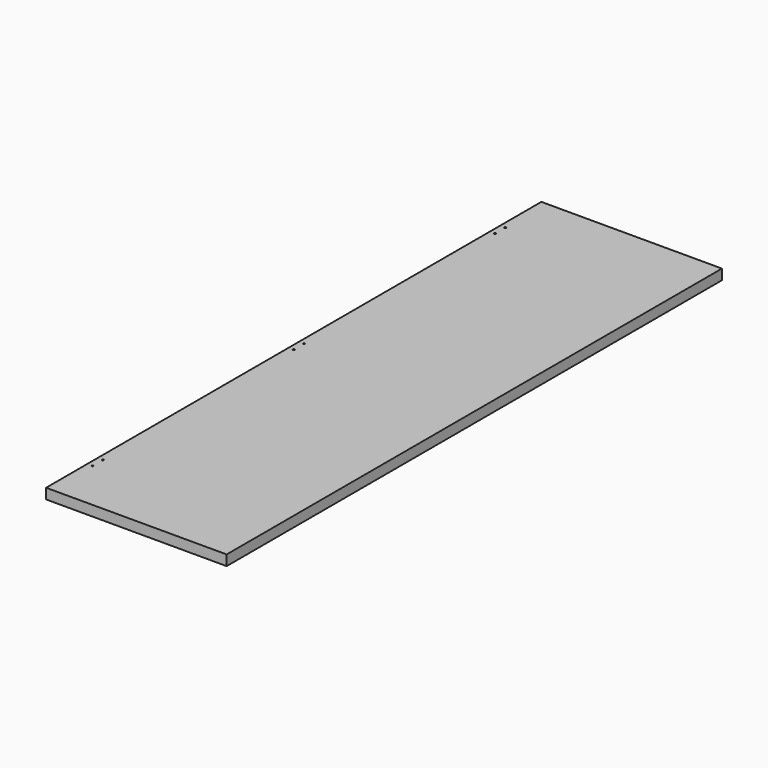
from build123d import *

# Parameters (mm, degrees)
F0_W     = 350
F0_H     = 1200
F1_DEPTH = 20
F3_D     = 3.3


with BuildPart() as f1:
    # F0 (on Top) → F1 (new body)
    with BuildSketch(Plane.XY):
        Rectangle(F0_W, F0_H)
    extrude(amount=F1_DEPTH)

    # F3 (through all)
    with Locations(Plane(origin=(0, 0, 0), x_dir=(1, 0, 0), z_dir=(0, 0, -1))):
        with Locations((-165, 500), (-165, 475), (-165, 12.5), (-165, -12.5), (-165, -500), (-165, -475)):
            Hole(F3_D / 2)


solid = f1.part
